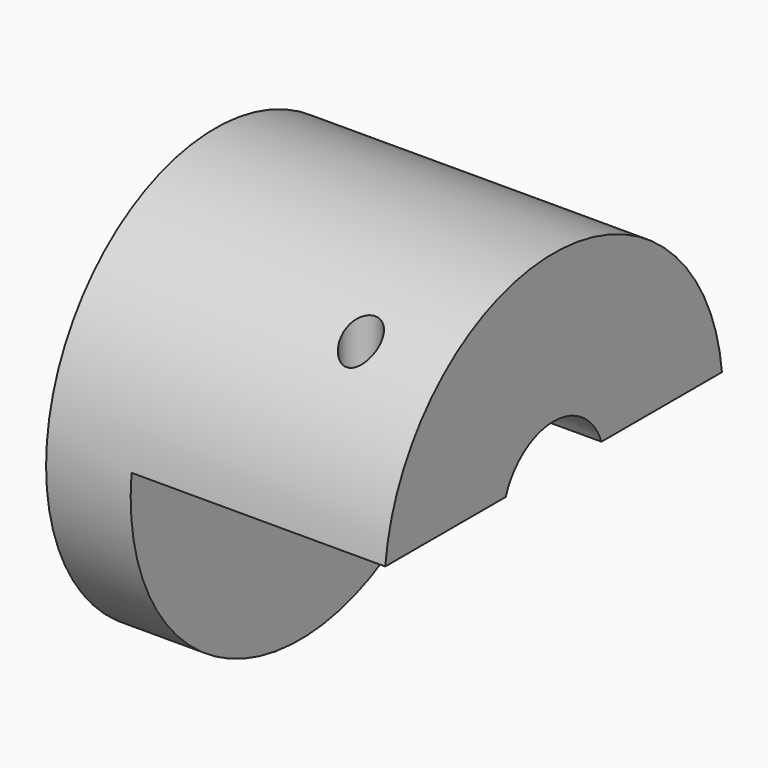
from build123d import *

# Parameters (mm, degrees)
F0_R      = 15.875
F1_DEPTH  = 25.4
F2_W      = 49.386511
F2_H      = 19.034712
F3_DEPTH  = 19.05
F4_R      = 1.8288
F5_DEPTH  = 6.351
F6_R      = 4.7625
F7_DEPTH  = 12.7
F8_R      = 3.175
F9_DEPTH  = 23.0124
F10_R     = 1.35255
F11_DEPTH = 14.2885


with BuildPart() as f1:
    # F0 (on Right) → F1 (new body)
    with BuildSketch(Plane.YZ):
        Circle(F0_R)
    extrude(amount=F1_DEPTH)

    # F2 (on face) → F3 (cut)
    with BuildSketch(Plane.YZ.offset(25.4)):
        with Locations((-1.538695, -7.929856)):
            Rectangle(F2_W, F2_H)
    extrude(amount=-F3_DEPTH, mode=Mode.SUBTRACT)

    # F4 (on face) → F5 (cut, through all)
    with BuildSketch(Plane.YZ.offset(6.35)):
        Circle(F4_R)
    extrude(amount=-F5_DEPTH, mode=Mode.SUBTRACT)

    # F6 (on face) → F7 (cut)
    with BuildSketch(Plane.YZ.offset(25.4)):
        Circle(F6_R)
    extrude(amount=-F7_DEPTH, mode=Mode.SUBTRACT)

    # F8 (on face) → F9 (cut)
    with BuildSketch(Plane.YZ.offset(25.4)):
        Circle(F8_R)
    extrude(amount=-F9_DEPTH, mode=Mode.SUBTRACT)

    # F10 (on face) → F11 (cut, through all)
    with BuildSketch(Plane(origin=(0, 0, 1.5875), x_dir=(1, 0, 0), z_dir=(0, 0, -1))):
        with Locations((19.05, 10.142777)):
            Circle(F10_R)
        with Locations((19.05, -10.142777)):
            Circle(F10_R)
    extrude(amount=-F11_DEPTH, mode=Mode.SUBTRACT)


solid = f1.part
